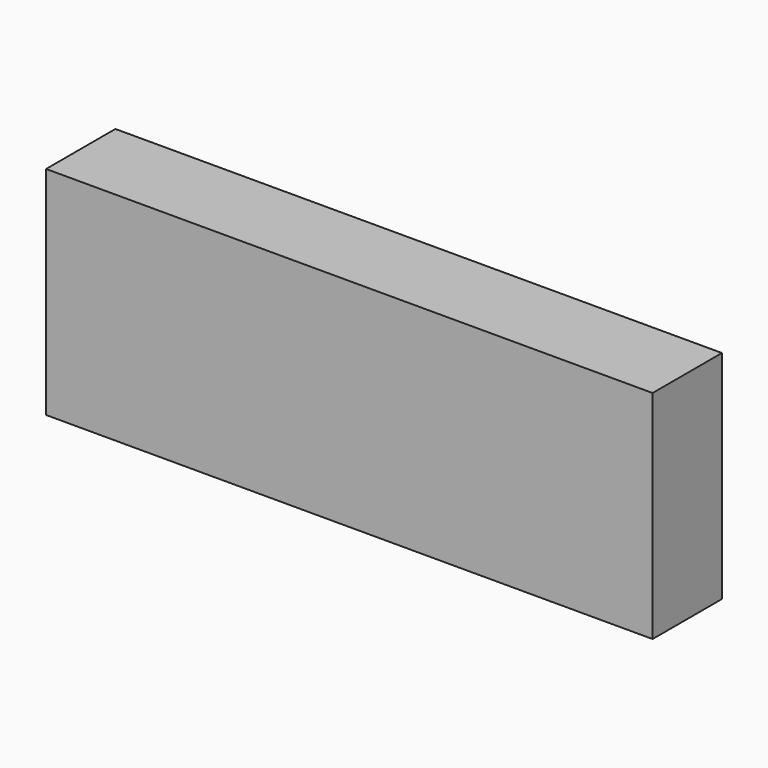
from build123d import *

# Parameters (mm, degrees)
SKETCH_W      = 140
SKETCH_H      = 20
EXTRUDE_DEPTH = 50


with BuildPart() as part:
    # Sketch → Extrude (new body)
    with BuildSketch(Plane.XY):
        Rectangle(SKETCH_W, SKETCH_H)
    extrude(amount=EXTRUDE_DEPTH)


solid = part.part
